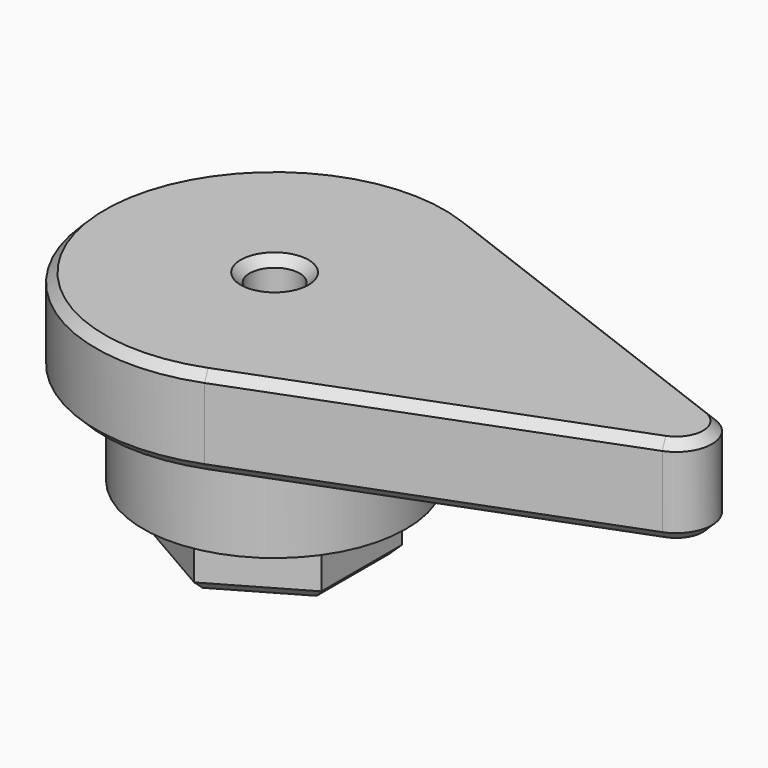
from build123d import *

# Parameters (mm, degrees)
PAD003_DEPTH    = 6.5
SKETCH007_R     = 14.75
PAD004_DEPTH    = 10.5
PAD005_DEPTH    = 10
SKETCH009_R     = 2.8
POCKET002_DEPTH = 27.001
CHAMFER_SIZE    = 1


with BuildPart() as part:
    # Sketch006 → Pad003 (new body)
    with BuildSketch(Plane.XY):
        Polygon((0, -11.25833), (9.75, -5.629165), (9.75, 5.629165), (0, 11.25833), (-9.75, 5.629165), (-9.75, -5.629165), align=None)
    extrude(amount=PAD003_DEPTH)

    # Sketch007 (on Face8 of Pad003) → Pad004 (join)
    with BuildSketch(Plane.XY.offset(6.5)):
        Circle(SKETCH007_R)
    extrude(amount=PAD004_DEPTH)

    # Sketch008 (on Face3 of Pad004) → Pad005 (join)
    with BuildSketch(Plane.XY.offset(17)):
        with BuildLine():
            ThreePointArc((7.111111, 18.693103), (-20, 0), (7.111111, -18.693103))
            Line((46.422222, -3.738621), (7.111111, -18.693103))
            ThreePointArc((46.422222, -3.738621), (49, 0), (46.422222, 3.738621))
            Line((46.422222, 3.738621), (7.111111, 18.693103))
        make_face()
    extrude(amount=PAD005_DEPTH)

    # Sketch009 (on Face5 of Pad005) → Pocket002 (cut, through all)
    with BuildSketch(Plane.XY.offset(27)):
        Circle(SKETCH009_R)
    extrude(amount=-POCKET002_DEPTH, mode=Mode.SUBTRACT)

    # Chamfer
    chamfer_edges = [part.edges().sort_by_distance(p)[0] for p in [
        (49, 0, 27),
        (26.766667, -11.215862, 27),
        (26.766667, 11.215862, 27),
        (-20, 0, 27),
        (-2.8, 0, 27),
        (26.766667, -11.215862, 17),
        (4.875, -8.443748, 0),
        (-4.875, -8.443748, 0),
        (9.75, 0, 0),
        (-9.75, 0, 0),
        (4.875, 8.443748, 0),
        (-4.875, 8.443748, 0),
        (-2.8, 0, 0),
    ]]
    chamfer(chamfer_edges, length=CHAMFER_SIZE)


with BuildPart() as part_1:
    # Body002 placement: moved
    add(part.part.moved(Location((0, 12, 0))))


solid = part_1.part
